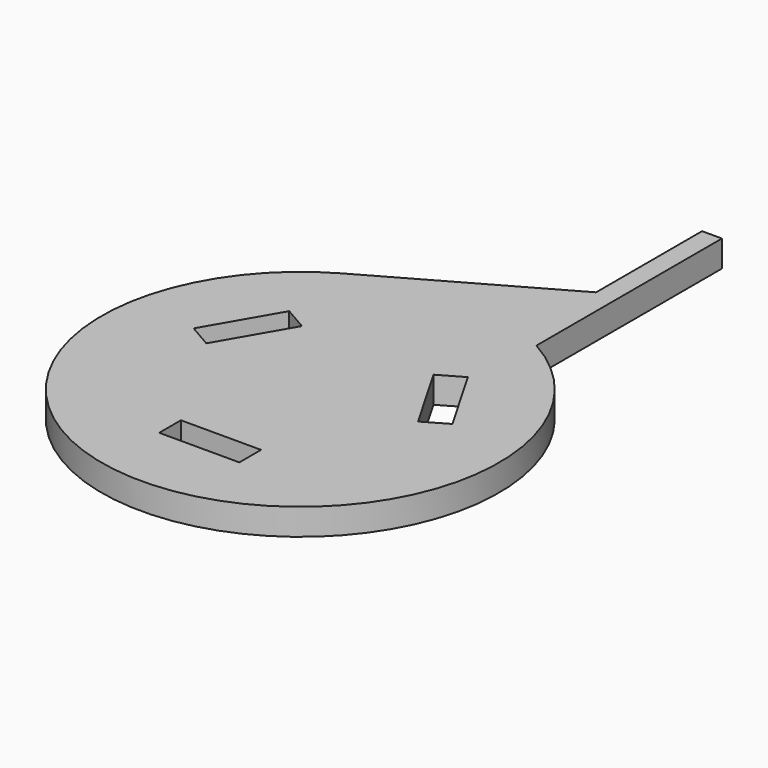
from build123d import *

# Parameters (mm, degrees)
PAD_DEPTH          = 8
SKETCH001_W        = 24.2
SKETCH001_H        = 8.2
POCKET_DEPTH       = 8
POLARPATTERN_COUNT = 3


with BuildPart() as part:
    # Sketch → Pad (new body)
    with BuildSketch(Plane.XY):
        with BuildLine():
            ThreePointArc((-29.53026, 52.229912), (0, -60), (29.53026, 52.229912))
            Line((29.53026, 122.229912), (29.53026, 52.229912))
            Line((23.53026, 122.229912), (29.53026, 122.229912))
            Line((23.53026, 122.229912), (23.53026, 82.229912))
            Line((23.53026, 82.229912), (-29.53026, 52.229912))
        make_face()
    extrude(amount=PAD_DEPTH)

    # Sketch001 → Pocket (cut)
    with BuildSketch(Plane.XY.offset(8)):
        with Locations((0, -34.025975)):
            Rectangle(SKETCH001_W, SKETCH001_H)
    pocket = extrude(amount=-POCKET_DEPTH, mode=Mode.SUBTRACT)

    # PolarPattern: Pocket ×3 about axis
    polarpattern_axis = Axis((0, 0, 8), (0, 0, 1))
    for i in range(1, POLARPATTERN_COUNT):
        add(pocket.rotate(polarpattern_axis, i * 360 / POLARPATTERN_COUNT), mode=Mode.SUBTRACT)


solid = part.part
